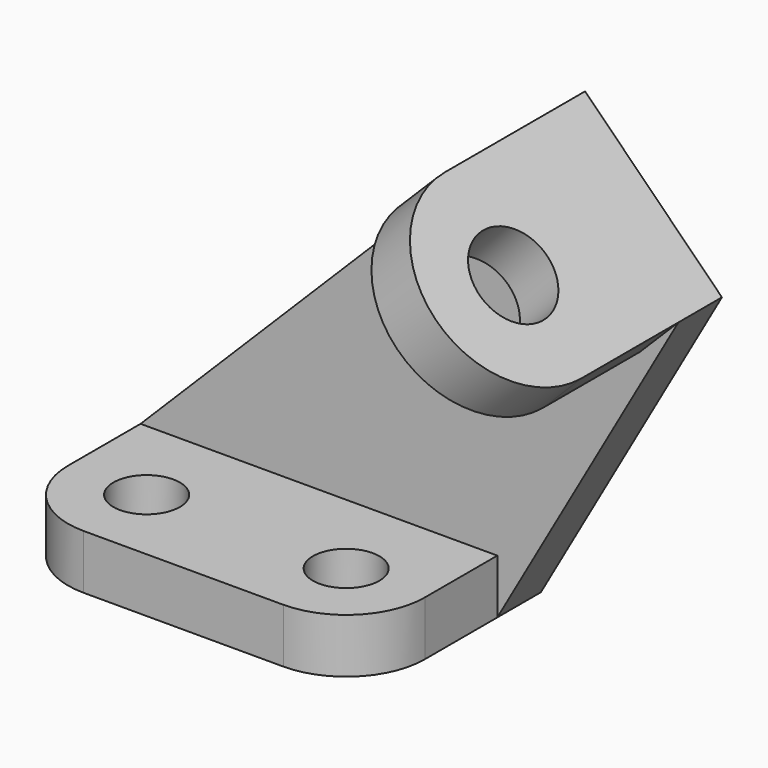
from build123d import *

# Parameters (mm, degrees)
F0_R     = 5.5
F1_DEPTH = 9
F3_DEPTH = 9
F4_R     = 7
F5_DEPTH = 9


with BuildPart() as f1:
    # F0 (on Top) → F1 (new body)
    with BuildSketch(Plane.XY):
        with BuildLine():
            Line((-29.5, 24), (-29.5, 0))
            ThreePointArc((-29.5, 0), (-25.6923881554, -9.1923881554), (-16.5, -13))
            Line((-16.5, -13), (16.5, -13))
            ThreePointArc((16.5, -13), (25.6923881554, -9.1923881554), (29.5, 0))
            Line((29.5, 0), (29.5, 24))
            Line((29.5, 24), (0, 24))
            Line((0, 24), (-29.5, 24))
        make_face()
        with Locations((-16.5, 0)):
            Circle(F0_R, mode=Mode.SUBTRACT)
        with Locations((16.5, 0)):
            Circle(F0_R, mode=Mode.SUBTRACT)
    extrude(amount=F1_DEPTH)

    # F2 (on face) → F3 (join)
    with BuildSketch(Plane(origin=(0, 24, 0), x_dir=(-1, 0, 0), z_dir=(0, 1, 0))):
        Polygon((-29.5, 0), (29.5, 0), (29.5, 9), (-36.813708499, 75.313708499), (-48.127416998, 64), (-59.441125497, 52.686291501), align=None)
    extrude(amount=-F3_DEPTH)

    # F4 (on face) → F5 (join)
    with BuildSketch(Plane(origin=(56.063708499, 0, 56.063708499), x_dir=(0, 1, 0), z_dir=(0.7071067812, 0, 0.7071067812))):
        with BuildLine():
            Line((24, -4.7763889243), (24, 27.2236110757))
            Line((24, 27.2236110757), (-5, 27.2236110757))
            ThreePointArc((-5, 27.2236110757), (-21, 11.2236110757), (-5, -4.7763889243))
            Line((-5, -4.7763889243), (24, -4.7763889243))
        make_face()
        with Locations((-5, 11.2236110757)):
            Circle(F4_R, mode=Mode.SUBTRACT)
    extrude(amount=-F5_DEPTH)


solid = f1.part
